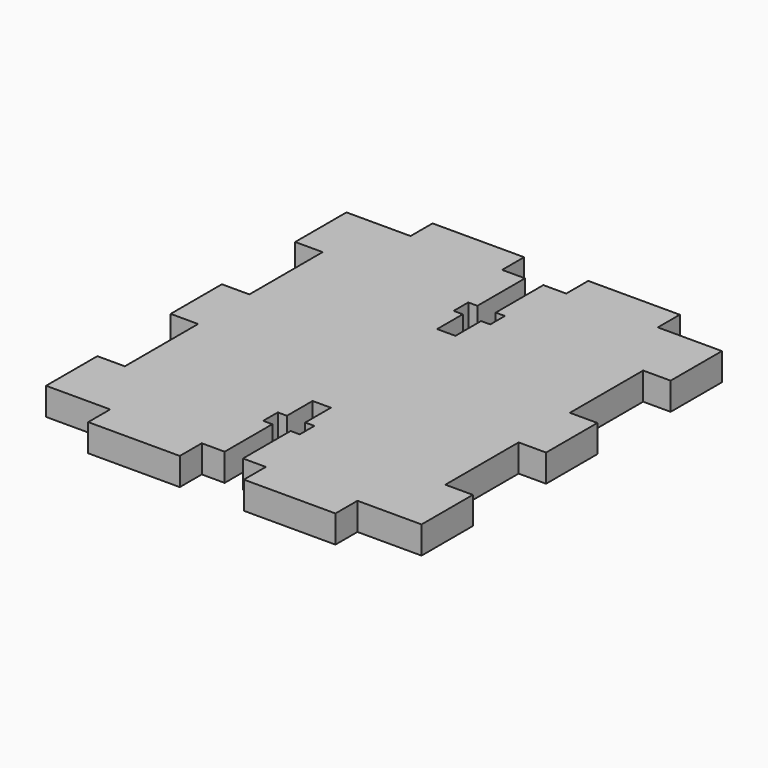
from build123d import *

# Parameters (mm, degrees)
F1_DEPTH = 3


with BuildPart() as f1:
    # F0 (on Top) → F1 (new body)
    with BuildSketch(Plane.XY):
        Polygon((0, 7), (0, 0), (7, 0), (7, -3), (17, -3), (17, 0), (19.5, 0), (19.5, 6.5), (18.5, 6.5), (18.5, 8.5), (19.5, 8.5), (19.5, 12), (21.5, 12), (21.5, 8.5), (22.5, 8.5), (22.5, 6.5), (21.5, 6.5), (21.5, 0), (24, 0), (24, -3), (34, -3), (34, 0), (41, 0), (41, 7), (38, 7), (38, 17), (41, 17), (41, 24), (38, 24), (38, 34), (41, 34), (41, 41), (34, 41), (34, 44), (24, 44), (24, 41), (21.5, 41), (21.5, 34.5), (22.5, 34.5), (22.5, 32.5), (21.5, 32.5), (21.5, 29), (19.5, 29), (19.5, 32.5), (18.5, 32.5), (18.5, 34.5), (19.5, 34.5), (19.5, 41), (17, 41), (17, 44), (7, 44), (7, 41), (0, 41), (0, 34), (3, 34), (3, 24), (0, 24), (0, 17), (3, 17), (3, 7), align=None)
    extrude(amount=F1_DEPTH)


solid = f1.part
